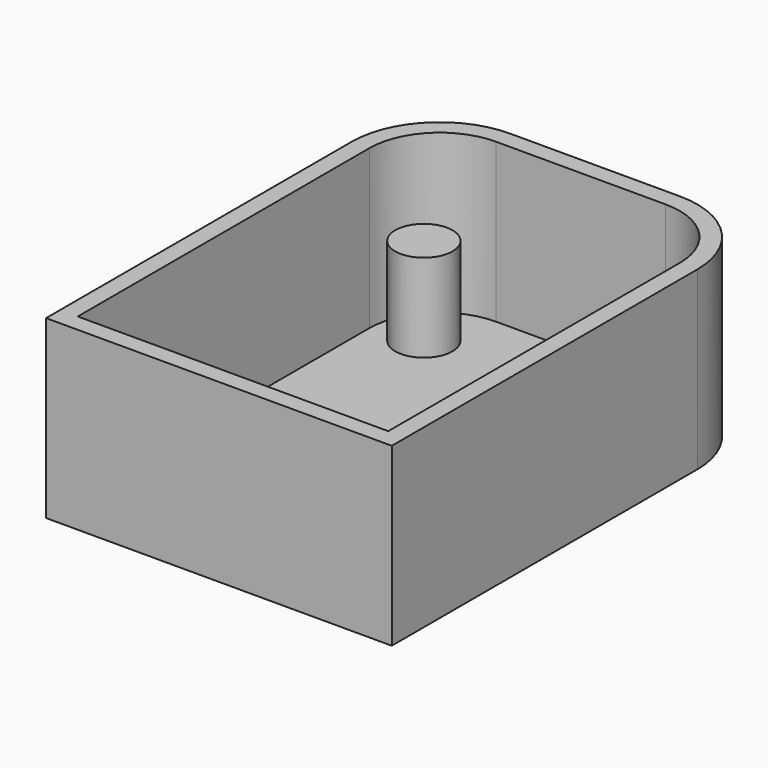
from build123d import *

# Parameters (mm, degrees)
F1_DEPTH = 12.7
F2_T     = -1.27
F3_R     = 2.067279
F4_DEPTH = 6.35
F5_R     = 2.067279
F6_DEPTH = 6.35


with BuildPart() as f1:
    # F0 (on Top) → F1 (new body)
    with BuildSketch(Plane.XY):
        with BuildLine():
            Line((18.591051, 0), (6.35, 0))
            ThreePointArc((6.35, 0), (1.859872, -1.859872), (0, -6.35))
            Line((0, -6.35), (0, -33.910388))
            Line((0, -33.910388), (24.941051, -33.910388))
            Line((24.941051, -33.910388), (24.941051, -6.35))
            ThreePointArc((24.941051, -6.35), (23.081179, -1.859872), (18.591051, 0))
        make_face()
    extrude(amount=F1_DEPTH)

    # F2
    f2_openings = [f1.faces().sort_by_distance(p)[0] for p in [
        (12.470526, -17.279761, 12.7),
    ]]
    offset(amount=F2_T, openings=f2_openings)

    # F3 (on face) → F4 (join)
    with BuildSketch(Plane.XY.offset(1.27)):
        with Locations((4.631324, -5.627174)):
            Circle(F3_R)
    extrude(amount=F4_DEPTH)

    # F5 (on face) → F6 (join)
    with BuildSketch(Plane.XY.offset(1.27)):
        with Locations((4.949421, -28.45392)):
            Circle(F5_R)
        with Locations((20.426176, -5.810678)):
            Circle(F5_R)
        with Locations((20.982977, -28.639521)):
            Circle(F5_R)
    extrude(amount=F6_DEPTH)


solid = f1.part
